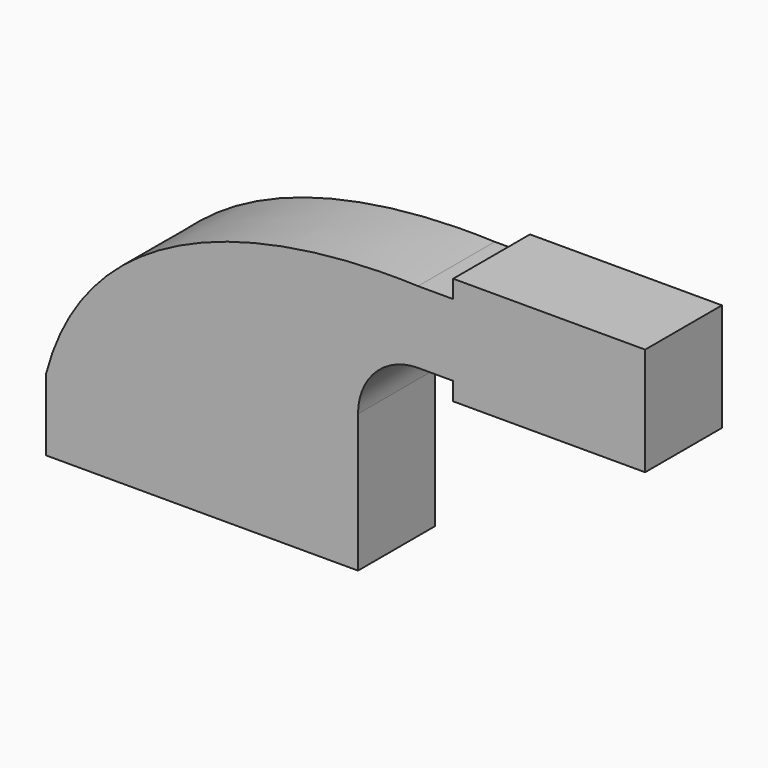
from build123d import *

# Parameters (mm, degrees)
F0_W     = 25.4
F0_H     = 28.575
F1_DEPTH = 25.4


with BuildPart() as f1:
    # F0 (on Front) → F1 (new body)
    with BuildSketch(Plane.XZ):
        with BuildLine():
            add(Edge.make_bspline(
                [(-75.842815, 0), (-64.44554, 43.440532), (-15.861409, 53.869586), (22.582185, 52.4002)],
                knots=[0, 0, 0, 0, 111.504536, 111.504536, 111.504536, 111.504536], degree=3))
            Line((-75.842815, 0), (-12.342815, 0))
            Line((-12.342815, 0), (-12.342815, 17.4752))
            ThreePointArc((-12.342815, 17.4752), (-2.113519, 42.170904), (22.582185, 52.4002))
        make_face()
        Polygon((-12.342815, 0), (-75.842815, 0), (-75.842815, -19.05), (6.707185, -19.05), (6.707185, 0), align=None)
        with BuildLine():
            Line((-12.342815, 17.4752), (-12.342815, 0))
            Line((-12.342815, 0), (6.707185, 0))
            Line((6.707185, 0), (6.707185, 17.4752))
            ThreePointArc((6.707185, 17.4752), (11.356865, 28.70052), (22.582185, 33.3502))
            Line((22.582185, 33.3502), (31.884942, 33.3502))
            Line((31.884942, 33.3502), (31.884942, 52.4002))
            Line((31.884942, 52.4002), (22.582185, 52.4002))
            ThreePointArc((22.582185, 52.4002), (-2.113519, 42.170904), (-12.342815, 17.4752))
        make_face()
        Polygon((31.884942, 57.15), (31.884942, 52.4002), (31.884942, 33.3502), (31.884942, 28.575), (57.284942, 28.575), (57.284942, 57.15), align=None)
        with Locations((69.984942, 42.8625)):
            Rectangle(F0_W, F0_H)
    extrude(amount=F1_DEPTH)


solid = f1.part
